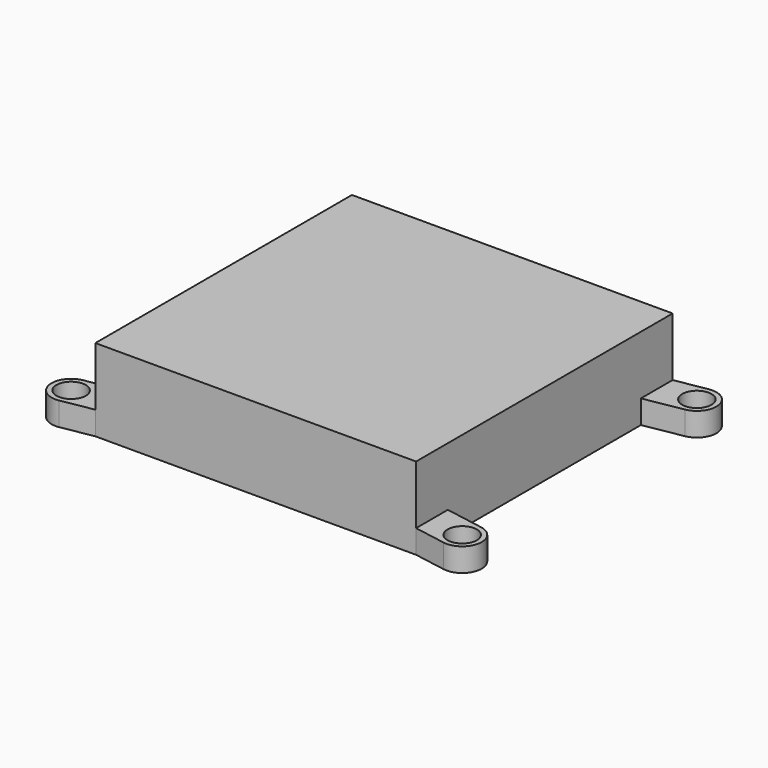
from build123d import *

# Parameters (mm, degrees)
SKETCH218_W         = 80
SKETCH218_H         = 80
PAD096_DEPTH        = 6
SKETCH219_W         = 82
SKETCH219_H         = 82
SKETCH219_W_2       = 80
SKETCH219_H_2       = 80
PAD097_DEPTH        = 20
SKETCH220_W         = 82
SKETCH220_H         = 82
PAD098_DEPTH        = 1
HOLE010_D           = 4.5
HOLE010_DEPTH       = 24
HOLE010_CBORE_D     = 7.5
HOLE010_CBORE_DEPTH = 4


with BuildPart() as part:
    # Sketch218 → Pad096 (new body)
    with BuildSketch(Plane.XY):
        with BuildLine():
            Line((-41.02059, 41), (40.97941, 41))
            Line((49.139632, 42.42542), (40.97941, 41))
            ThreePointArc((50.860368, 32.57458), (54.92542, 38.360368), (49.139632, 42.42542))
            Line((41, 30.852179), (50.860368, 32.57458))
            Line((41, 30.852179), (41, -30.847821))
            Line((50.86248, -32.574949), (41, -30.847821))
            ThreePointArc((49.13752, -42.425051), (54.925051, -38.36248), (50.86248, -32.574949))
            Line((41, -41), (49.13752, -42.425051))
            Line((41, -41), (-41, -41))
            Line((-49.13752, -42.425051), (-41, -41))
            ThreePointArc((-50.86248, -32.574949), (-54.925051, -38.36248), (-49.13752, -42.425051))
            Line((-50.86248, -32.574949), (-41, -30.847821))
            Line((-41, -30.847821), (-41, 30.843439))
            Line((-41, 30.843439), (-50.864603, 32.575321))
            ThreePointArc((-49.135397, 42.424679), (-54.924679, 38.364603), (-50.864603, 32.575321))
            Line((-41.02059, 41), (-49.135397, 42.424679))
        make_face()
        Rectangle(SKETCH218_W, SKETCH218_H, mode=Mode.SUBTRACT)
    extrude(amount=PAD096_DEPTH)

    # Sketch219 → Pad097 (join)
    with BuildSketch(Plane.XY):
        Rectangle(SKETCH219_W, SKETCH219_H)
        Rectangle(SKETCH219_W_2, SKETCH219_H_2, mode=Mode.SUBTRACT)
    extrude(amount=PAD097_DEPTH)

    # Sketch220 (on Face25 of Pad097) → Pad098 (join)
    with BuildSketch(Plane.XY.offset(20)):
        Rectangle(SKETCH220_W, SKETCH220_H)
    extrude(amount=PAD098_DEPTH)

    # Hole010
    with Locations(Plane.XY.offset(6)):
        with Locations((-50, 37.5), (50, 37.5), (50, -37.5), (-50, -37.5)):
            CounterBoreHole(HOLE010_D / 2, HOLE010_CBORE_D / 2, HOLE010_CBORE_DEPTH, depth=HOLE010_DEPTH)


with BuildPart() as part_1:
    # Body026 placement: moved
    add(part.part.moved(Location((-108, 0, 15))))


solid = part_1.part
